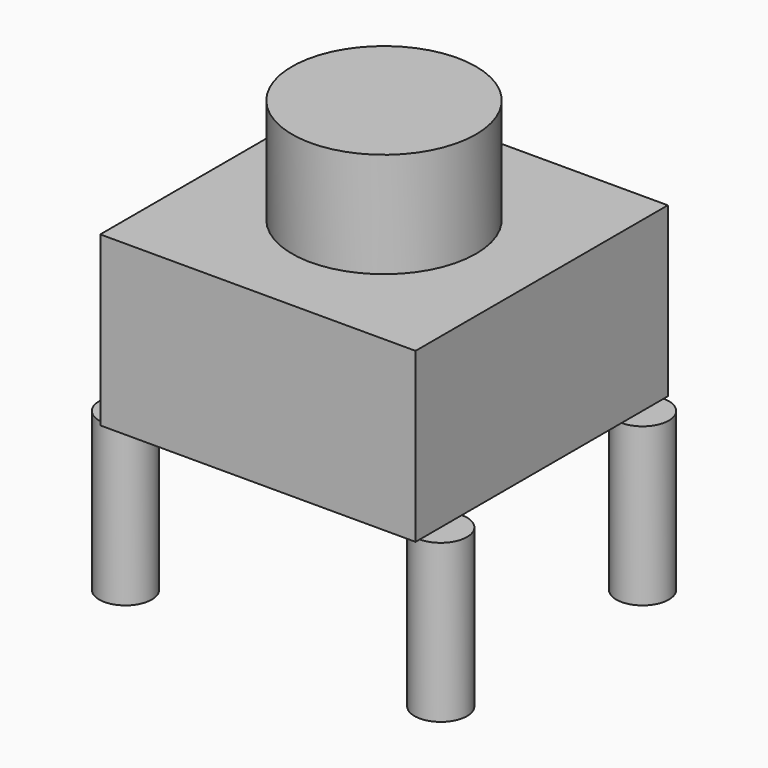
from build123d import *

# Parameters (mm, degrees)
F0_W     = 6
F0_H     = 6
F1_DEPTH = 3.2
F2_R     = 1.75
F3_DEPTH = 2
F4_R     = 0.5
F5_DEPTH = 3


with BuildPart() as f1:
    # F0 (on Top) → F1 (new body)
    with BuildSketch(Plane.XY):
        Rectangle(F0_W, F0_H)
    extrude(amount=-F1_DEPTH)

    # F2 (on face) → F3 (join)
    with BuildSketch(Plane.XY):
        Circle(F2_R)
    extrude(amount=F3_DEPTH)

    # F4 (on face) → F5 (join)
    with BuildSketch(Plane(origin=(0, 0, -3.2), x_dir=(1, 0, 0), z_dir=(0, 0, -1))):
        with Locations((-3, 2.4)):
            Circle(F4_R)
        with Locations((3, 2.4)):
            Circle(F4_R)
        with Locations((-3, -2.4)):
            Circle(F4_R)
        with Locations((3, -2.4)):
            Circle(F4_R)
    extrude(amount=F5_DEPTH)


solid = f1.part
